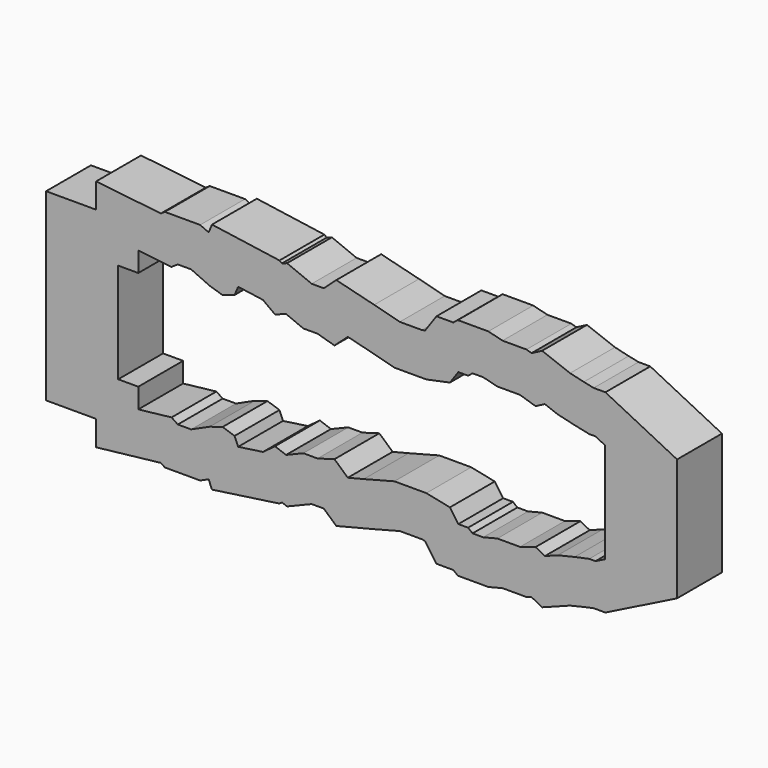
from build123d import *

# Parameters (mm, degrees)
F1_DEPTH = 4


with BuildPart() as f1:
    # F0 (on Front) → F1 (new body)
    with BuildSketch(Plane.XZ):
        Polygon((28.140141, 1.079267), (23.027079, 3.635797), (22.190165, 3.635797), (21.487397, 3.784869), (20.508261, 4.01677), (18.511227, 4.774267), (17.754608, 4.377944), (17.395179, 4.490907), (15.688958, 4.490907), (14.675495, 4.744273), (12.493739, 4.744273), (12.177031, 4.490907), (10.975377, 4.490907), (10.159982, 3.332186), (9.944286, 3.287419), (9.713922, 3.287419), (8.356896, 3.287419), (6.529206, 3.764208), (3.825945, 4.440023), (2.928981, 3.632755), (2.91847, 3.635797), (2.070995, 3.635797), (0.314703, 4.356327), (-0.052348, 4.224189), (-0.22679, 4.353405), (-5.04288, 5.041418), (-5.2829, 4.471371), (-5.886157, 4.744273), (-8.405054, 4.744273), (-8.692273, 4.549374), (-13.301984, 5.071807), (-13.301984, 3.287419), (-16.88024, 3.287419), (-16.88024, -0.282654), (-16.88024, -6.282654), (-16.88024, -9.852727), (-13.301984, -9.852727), (-13.301984, -11.637115), (-8.692273, -11.114682), (-8.405054, -11.309581), (-5.886157, -11.309581), (-5.2829, -11.036679), (-5.04288, -11.606726), (-0.22679, -10.918713), (-0.052348, -10.789497), (0.314703, -10.921635), (2.070995, -10.201105), (2.91847, -10.201105), (2.928981, -10.198063), (3.825945, -11.005331), (6.529206, -10.329516), (8.356896, -9.852727), (9.713922, -9.852727), (9.944286, -9.852727), (10.159982, -9.897494), (10.975377, -11.056215), (12.177031, -11.056215), (12.493739, -11.309581), (14.675495, -11.309581), (15.688958, -11.056215), (17.395179, -11.056215), (17.754608, -10.943252), (18.511227, -11.339575), (20.508261, -10.582078), (21.487397, -10.350178), (22.190165, -10.201105), (23.027079, -10.201105), (28.140141, -7.644575), align=None)
        Polygon((-11.733841, -6.852727), (-11.733841, 0.287419), (-10.301984, 0.287419), (-10.301984, 1.712602), (-7.926678, 1.443401), (-7.483288, 1.744273), (-6.533165, 1.744273), (-5.202995, 1.142529), (-4.284543, 0.857492), (-3.429434, 1.142529), (-3.176068, 1.744273), (-1.402506, 1.490907), (-0.547397, 0.857492), (0.244372, 1.142529), (1.479531, 0.635797), (2.492994, 0.635797), (3.696482, 0.287419), (4.646604, 1.142529), (5.786751, 0.857492), (7.972032, 0.287419), (9.713922, 0.287419), (10.252325, 0.287419), (11.930874, 0.635797), (12.532617, 1.490907), (13.229374, 1.490907), (13.546081, 1.744273), (14.306178, 1.744273), (15.319642, 1.490907), (16.934849, 1.490907), (18.043324, 1.142529), (18.708412, 1.490907), (19.626861, 1.142529), (20.83035, 0.857492), (21.875484, 0.635797), (22.318875, 0.635797), (23.015631, 0.287419), (23.015631, -6.852727), (22.318875, -7.201105), (21.875484, -7.201105), (20.83035, -7.422801), (19.626861, -7.707837), (18.708412, -8.056215), (18.043324, -7.707837), (16.934849, -8.056215), (15.319642, -8.056215), (14.306178, -8.309581), (13.546081, -8.309581), (13.229374, -8.056215), (12.532617, -8.056215), (11.930874, -7.201105), (10.252325, -6.852727), (9.713922, -6.852727), (7.972032, -6.852727), (5.786751, -7.422801), (4.646604, -7.707837), (3.696482, -6.852727), (2.492994, -7.201105), (1.479531, -7.201105), (0.244372, -7.707837), (-0.547397, -7.422801), (-1.402506, -8.056215), (-3.176068, -8.309581), (-3.429434, -7.707837), (-4.284543, -7.422801), (-5.202995, -7.707837), (-6.533165, -8.309581), (-7.483288, -8.309581), (-7.926678, -8.008709), (-10.301984, -8.27791), (-10.301984, -6.852727), align=None, mode=Mode.SUBTRACT)
    extrude(amount=F1_DEPTH)


solid = f1.part
